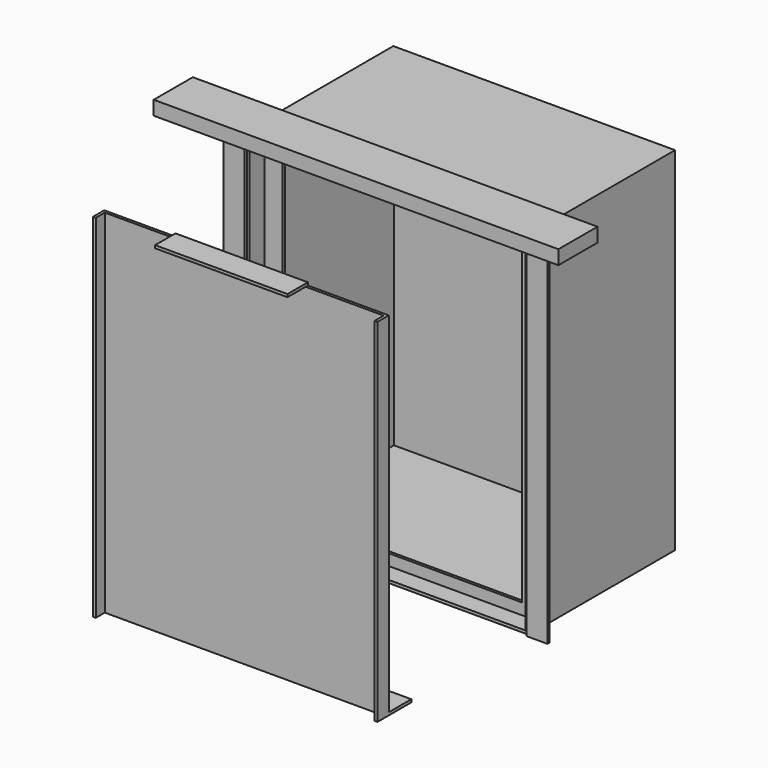
from build123d import *

# Parameters (mm, degrees)
F0_W      = 200
F0_H      = 250
F1_DEPTH  = 130
F2_T      = -2
F4_W      = 15
F4_H      = 220
F5_DEPTH  = 2
F7_W      = 15
F7_H      = 250
F8_DEPTH  = 2
F10_W     = 200
F10_H     = 250
F11_DEPTH = 2
F15_W     = 10
F15_H     = 250
F16_DEPTH = 2
F17_W     = 10
F17_H     = 250
F18_DEPTH = 2
F19_W     = 200
F19_H     = 20
F20_DEPTH = 2
F25_W     = 94.0138921142
F25_H     = 18.0724263191
F26_DEPTH = 2
F27_W     = 283.2776047289
F27_H     = 32.6531976461
F28_DEPTH = 2
F30_W     = 32.6531976461
F30_H     = 10
F31_DEPTH = 2
F33_W     = 32.6531976461
F33_H     = 10
F34_DEPTH = 2
F36_W     = 287.2776047289
F36_H     = 10
F37_DEPTH = 2


with BuildPart() as f1:
    # F0 (on Front) → F1 (new body)
    with BuildSketch(Plane.XZ):
        with Locations((180.6282737516, 125)):
            Rectangle(F0_W, F0_H)
    extrude(amount=F1_DEPTH)

    # F2
    f2_openings = [f1.faces().sort_by_distance(p)[0] for p in [
        (180.628274, -130, 125),
    ]]
    offset(amount=F2_T, openings=f2_openings)

    # F4 (on offset) → F5 (join)
    with BuildSketch(Plane.XZ.offset(117)):
        Polygon((280.6282737516, 250), (80.6282737516, 250), (80.6282737516, 230), (95.6282737516, 230), (265.6282737516, 230), (280.6282737516, 230), align=None)
        Polygon((95.6282737516, 230), (80.6282737516, 230), (80.6282737516, 0), (95.6282737516, 0), (95.6282737516, 10), align=None)
        with Locations((273.1282737516, 120)):
            Rectangle(F4_W, F4_H)
        Polygon((280.6282737516, 0), (280.6282737516, 10), (265.6282737516, 10), (95.6282737516, 10), (95.6282737516, 0), align=None)
    extrude(amount=-F5_DEPTH)

    # F7 (on offset) → F8 (join)
    with BuildSketch(Plane.XZ.offset(130)):
        with Locations((73.1282737516, 125)):
            Rectangle(F7_W, F7_H)
        Polygon((65.6282737516, 250), (80.6282737516, 250), (280.6282737516, 250), (295.6282737516, 250), (295.6282737516, 265), (65.6282737516, 265), align=None)
        with Locations((288.1282737516, 125)):
            Rectangle(F7_W, F7_H)
    extrude(amount=F8_DEPTH)

    # F27 (on line) → F28 (join)
    with BuildSketch(Plane.XY.offset(265)):
        with Locations((178.8100730628, -137.4265988231)):
            Rectangle(F27_W, F27_H)
    extrude(amount=-F28_DEPTH)

    # F30 (on line) → F31 (join)
    with BuildSketch(Plane.YZ.offset(320.4488754272)):
        with Locations((-137.4265988231, 260)):
            Rectangle(F30_W, F30_H)
    extrude(amount=F31_DEPTH)

    # F33 (on line) → F34 (join)
    with BuildSketch(Plane.YZ.offset(37.1712706983)):
        with Locations((-137.4265988231, 260)):
            Rectangle(F33_W, F33_H)
    extrude(amount=-F34_DEPTH)

    # F36 (on line) → F37 (join)
    with BuildSketch(Plane(origin=(0, -153.7531976461, 0), x_dir=(-1, 0, 0), z_dir=(0, 1, 0))):
        with Locations((-178.8100730628, 260)):
            Rectangle(F36_W, F36_H)
    extrude(amount=-F37_DEPTH)


with BuildPart() as f11:
    # F10 (on offset) → F11 (new body)
    with BuildSketch(Plane.XZ.offset(254)):
        with Locations((180.6282737516, 125)):
            Rectangle(F10_W, F10_H)
    extrude(amount=F11_DEPTH)

    # F15 (on line) → F16 (join)
    with BuildSketch(Plane(origin=(80.6282737516, 0, 0), x_dir=(0, -1, 0), z_dir=(-1, 0, 0))):
        with Locations((259, 125)):
            Rectangle(F15_W, F15_H)
    extrude(amount=F16_DEPTH)

    # F17 (on line) → F18 (join)
    with BuildSketch(Plane(origin=(280.6282737516, 0, 0), x_dir=(0, -1, 0), z_dir=(-1, 0, 0))):
        with Locations((259, 125)):
            Rectangle(F17_W, F17_H)
    extrude(amount=F18_DEPTH)

    # F19 (on line) → F20 (join)
    with BuildSketch(Plane.XY):
        with Locations((180.6282737516, -244)):
            Rectangle(F19_W, F19_H)
    extrude(amount=F20_DEPTH)

    # F25 (on line) → F26 (join)
    with BuildSketch(Plane.XY.offset(250)):
        with Locations((176.1883087456, -263.0362131596)):
            Rectangle(F25_W, F25_H)
    extrude(amount=F26_DEPTH)


solid = Compound([f1.part, f11.part])
